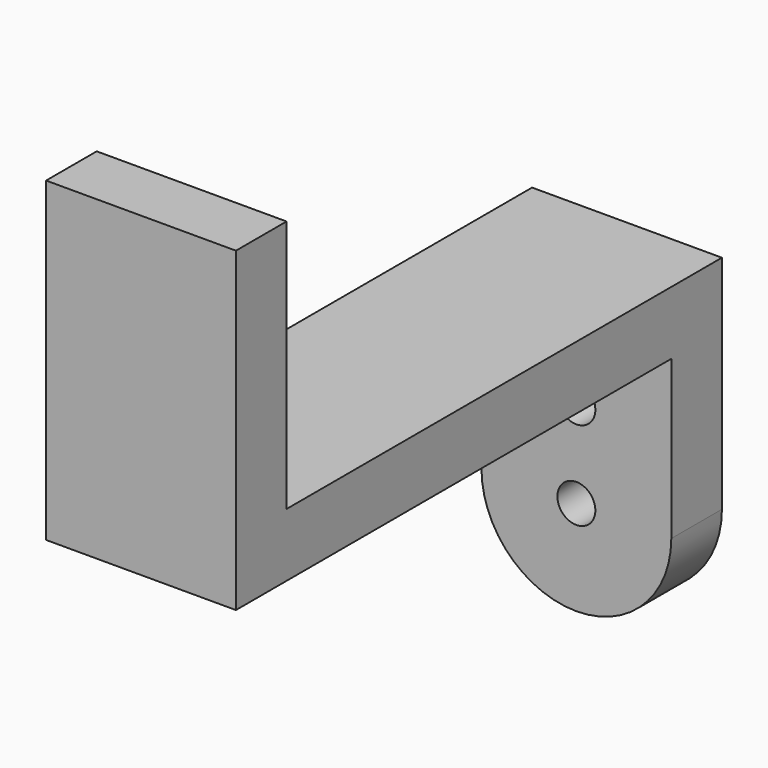
from build123d import *

# Parameters (mm, degrees)
F1_DEPTH = 15
F2_R     = 1.5
F3_DEPTH = 5.001


with BuildPart() as f1:
    # F0 (on Right) → F1 (new body)
    with BuildSketch(Plane.YZ):
        Polygon((-24.130502, -17.715111), (-24.130502, 2.284889), (-29.130502, 2.284889), (-29.130502, -22.715111), (13.869498, -22.715111), (13.869498, -42.715111), (18.869498, -42.715111), (18.869498, -17.715111), align=None)
    extrude(amount=F1_DEPTH)

    # F2 (on face) → F3 (cut, through all)
    with BuildSketch(Plane.XZ.offset(-13.869498)):
        with BuildLine():
            ThreePointArc((15, -35.215111), (12.803301, -40.518412), (7.5, -42.715111))
            Line((7.5, -42.715111), (15, -42.715111))
            Line((15, -42.715111), (15, -35.215111))
        make_face()
        with BuildLine():
            ThreePointArc((7.5, -42.715111), (2.196699, -40.518412), (0, -35.215111))
            Line((0, -35.215111), (0, -42.715111))
            Line((0, -42.715111), (7.5, -42.715111))
        make_face()
        with Locations((7.5, -35.215111)):
            Circle(F2_R)
        with Locations((7.5, -28.215111)):
            Circle(F2_R)
    extrude(amount=-F3_DEPTH, mode=Mode.SUBTRACT)


solid = f1.part
